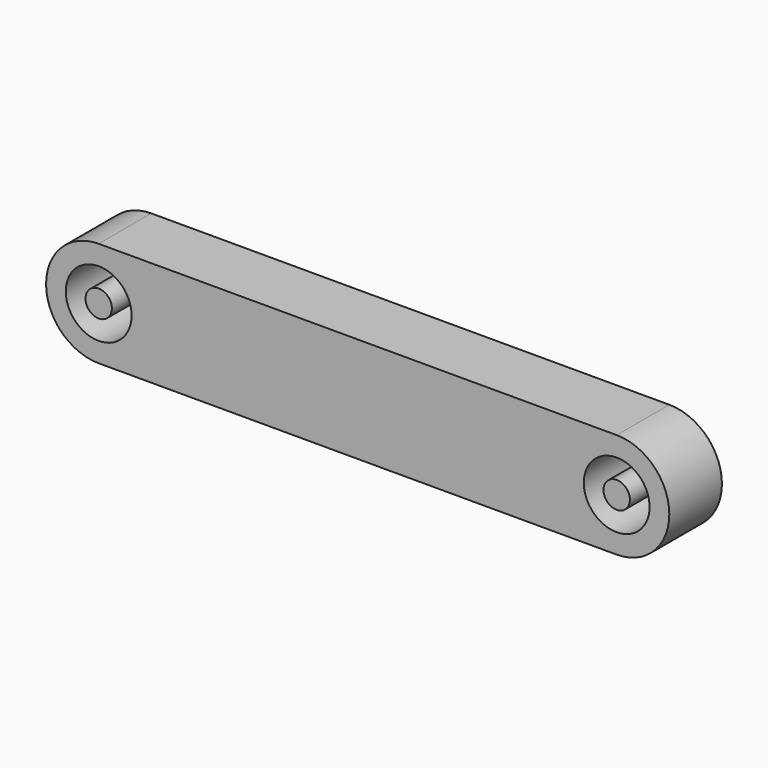
from build123d import *

# Parameters (mm, degrees)
F0_R     = 2.5019
F0_R_2   = 1.0033
F1_DEPTH = 5.0038


with BuildPart() as f1:
    # F0 (on Front) → F1 (new body)
    with BuildSketch(Plane.XZ):
        with BuildLine():
            ThreePointArc((0, 4.0005), (-4.0005, 0), (0, -4.0005))
            Line((0, -4.0005), (39.3954, -4.0005))
            ThreePointArc((39.3954, -4.0005), (43.3959, 0), (39.3954, 4.0005))
            Line((39.3954, 4.0005), (0, 4.0005))
        make_face()
        Circle(F0_R, mode=Mode.SUBTRACT)
        with Locations((39.3954, 0)):
            Circle(F0_R, mode=Mode.SUBTRACT)
        Circle(F0_R_2)
        with Locations((39.3954, 0)):
            Circle(F0_R_2)
    extrude(amount=F1_DEPTH)


solid = f1.part
